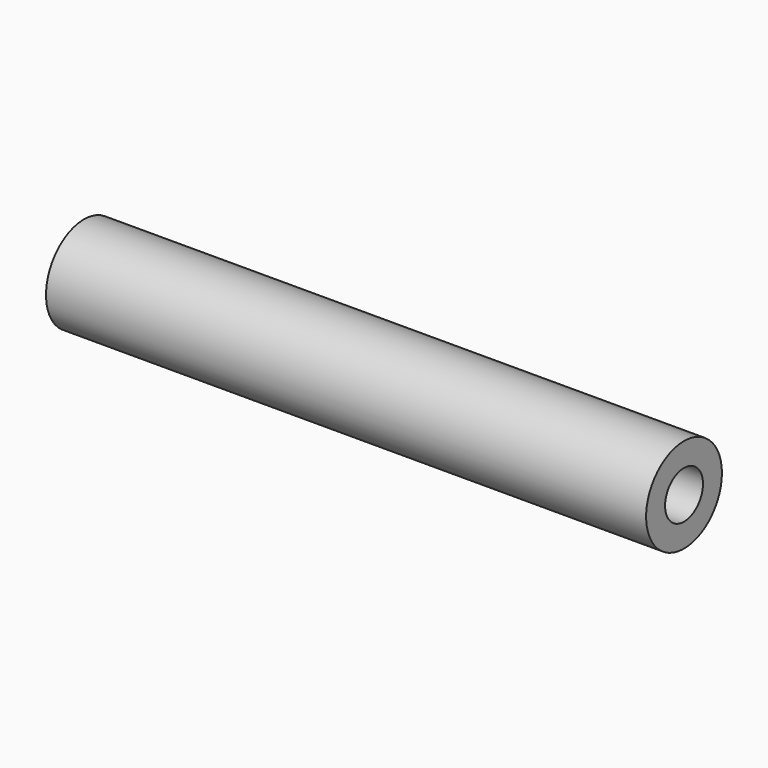
from build123d import *

# Parameters (mm, degrees)
F0_R     = 38.1
F1_DEPTH = 241.3
F3_D     = 38.1
F3_DEPTH = 50.8
F3_TIP   = 11.4463947925
F5_D     = 38.1
F5_DEPTH = 50.8
F5_TIP   = 11.4463947925


with BuildPart() as f1:
    # F0 (on Right) → F1 (new body, symmetric)
    with BuildSketch(Plane.YZ):
        Circle(F0_R)
    extrude(amount=F1_DEPTH, both=True)

    # F3
    with Locations(Plane(origin=(-241.3, 0, 0), x_dir=(0, -1, 0), z_dir=(-1, 0, 0))):
        with Locations((0, 0)):
            Hole(F3_D / 2, depth=F3_DEPTH)
            with Locations((0, 0, -(F3_DEPTH + F3_TIP / 2))):  # 118° drill point
                Cone(0, F3_D / 2, F3_TIP, mode=Mode.SUBTRACT)

    # F5
    with Locations(Plane.YZ.offset(241.3)):
        with Locations((0, 0)):
            Hole(F5_D / 2, depth=F5_DEPTH)
            with Locations((0, 0, -(F5_DEPTH + F5_TIP / 2))):  # 118° drill point
                Cone(0, F5_D / 2, F5_TIP, mode=Mode.SUBTRACT)


solid = f1.part
